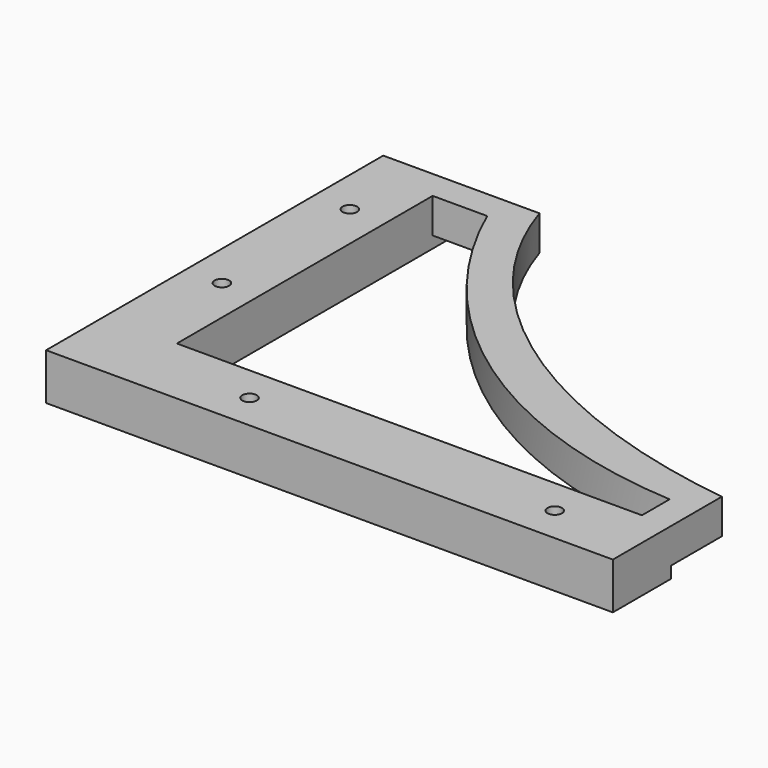
from build123d import *

# Parameters (mm, degrees)
F1_DEPTH  = 12
F2_W      = 200
F2_H      = 20
F3_DEPTH  = 5
F4_W      = 155
F4_H      = 20
F5_DEPTH  = 5
F6_R      = 2.5
F7_DEPTH  = 25
F9_DEPTH  = 5
F10_W     = 195
F10_H     = 30
F10_W_2   = 30
F10_H_2   = 145
F11_DEPTH = 25
F12_W     = 145
F12_H     = 9
F13_DEPTH = 195.0010001
F15_DEPTH = 25


with BuildPart() as f1:
    # F0 (on Top) → F1 (new body)
    with BuildSketch(Plane.XY):
        with BuildLine():
            add(Edge.make_bspline(
                [(-176, 0), (-176, -130), (0, -130)],
                knots=[3.1415926536, 3.1415926536, 3.1415926536, 4.7123889804, 4.7123889804, 4.7123889804], degree=2, weights=[1, 0.7071067812, 1]))
            Line((-176, 0), (-176, -130))
            Line((-176, -130), (0, -130))
        make_face()
        Polygon((-176, -130), (-176, 0), (-200, 0), (-200, -150), (0, -150), (0, -130), align=None)
    extrude(amount=F1_DEPTH)

    # F2 (on face) → F3 (join)
    with BuildSketch(Plane.XZ.offset(150)):
        with Locations((-100, 6)):
            Rectangle(F2_W, F2_H)
    extrude(amount=F3_DEPTH)

    # F4 (on face) → F5 (join)
    with BuildSketch(Plane(origin=(-200, 0, 0), x_dir=(0, -1, 0), z_dir=(-1, 0, 0))):
        with Locations((77.5, 6)):
            Rectangle(F4_W, F4_H)
    extrude(amount=F5_DEPTH)

    # F6 (on face) → F7 (join)
    with BuildSketch(Plane(origin=(0, 0, -4), x_dir=(1, 0, 0), z_dir=(0, 0, -1))):
        Polygon((0, 155), (0, 175), (-225, 175), (-225, 0), (-205, 0), (-205, 155), align=None)
        with Locations((-212.5, 60)):
            Circle(F6_R, mode=Mode.SUBTRACT)
        with Locations((-212.5, 115)):
            Circle(F6_R, mode=Mode.SUBTRACT)
        with Locations((-165, 162.5)):
            Circle(F6_R, mode=Mode.SUBTRACT)
        with Locations((-60, 162.5)):
            Circle(F6_R, mode=Mode.SUBTRACT)
    extrude(amount=-F7_DEPTH)

    # F8 (on face) → F9 (join)
    with BuildSketch(Plane.XY.offset(16)):
        Polygon((-190, 0), (-205, 0), (-205, -155), (0, -155), (0, -140), (-190, -140), align=None)
    extrude(amount=F9_DEPTH)

    # F10 (on Top) → F11 (cut, symmetric)
    with BuildSketch(Plane.XY):
        with Locations((-127.5, -15)):
            Rectangle(F10_W, F10_H)
        with Locations((-15, -15)):
            Rectangle(F10_W_2, F10_H)
        with Locations((-15, -102.5)):
            Rectangle(F10_W_2, F10_H_2)
    extrude(amount=F11_DEPTH, both=True, mode=Mode.SUBTRACT)

    # F12 (on face) → F13 (cut, through all)
    with BuildSketch(Plane.YZ.offset(-30)):
        with Locations((-102.5, 16.5)):
            Rectangle(F12_W, F12_H)
    extrude(amount=-F13_DEPTH, mode=Mode.SUBTRACT)

    # F14 (on face) → F15 (cut)
    with BuildSketch(Plane(origin=(0, 0, 0), x_dir=(1, 0, 0), z_dir=(0, 0, -1))):
        with BuildLine():
            ThreePointArc((-181.2494979045, 40), (-124.4154289012, 108.9058025162), (-40, 138.0975202339))
            Line((-40, 138.0975202339), (-40, 150))
            Line((-40, 150), (-200, 150))
            Line((-200, 150), (-200, 40))
            Line((-200, 40), (-181.2494979045, 40))
        make_face()
    extrude(amount=-F15_DEPTH, mode=Mode.SUBTRACT)


solid = f1.part
